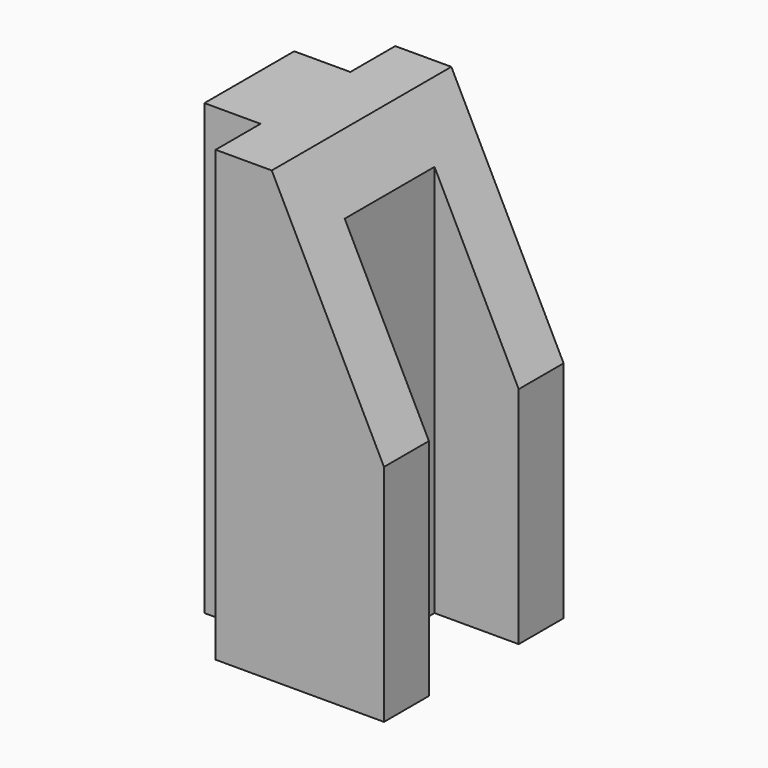
from build123d import *

# Parameters (mm, degrees)
F1_DEPTH = 101.6
F3_DEPTH = 50.801


with BuildPart() as f1:
    # F0 (on Top) → F1 (new body)
    with BuildSketch(Plane.XY):
        Polygon((-12.7, 0), (0, 0), (0, 50.8), (-12.7, 50.8), (-12.7, 38.1), (-25.4, 38.1), (-25.4, 12.7), (-12.7, 12.7), align=None)
        Polygon((0, 50.8), (0, 0), (25.4, 0), (25.4, 12.7), (6.35, 12.7), (6.35, 38.1), (25.4, 38.1), (25.4, 50.8), align=None)
    extrude(amount=F1_DEPTH)

    # F2 (on face) → F3 (cut, through all)
    with BuildSketch(Plane.XZ):
        Polygon((25.4, 101.6), (0, 101.6), (25.4, 50.8), align=None)
    extrude(amount=-F3_DEPTH, mode=Mode.SUBTRACT)


solid = f1.part
